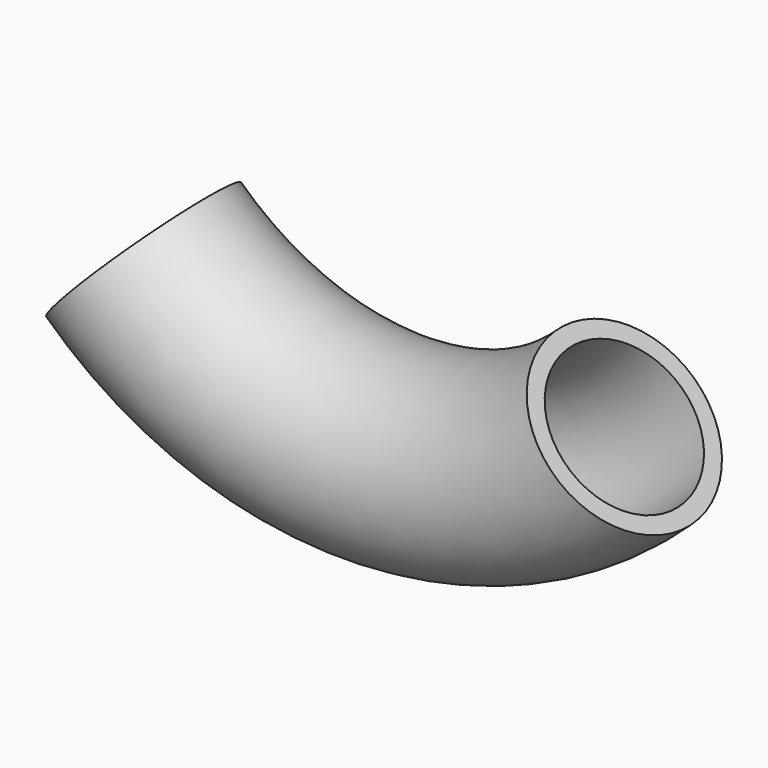
from build123d import *

# Parameters (mm, degrees)
F3_R   = 19
F3_R_2 = 15.5


with BuildPart() as f4:
    # F4: sweep along a path in F0
    with BuildLine(Plane.XZ) as f4_path:
        ThreePointArc((-62.5, 12.5), (0, -12.5), (62.5, 12.5))
    # F3 (on face) → F4 (sweep)
    with BuildSketch(Plane(origin=(-39.016052, 0, 37.158145), x_dir=(0, -1, 0), z_dir=(-0.724138, 0, 0.689655))):
        with Locations((0, -15.05172)):
            Circle(F3_R)
        with Locations((0, -15.05172)):
            Circle(F3_R_2, mode=Mode.SUBTRACT)
    sweep(path=f4_path.line)


solid = f4.part
